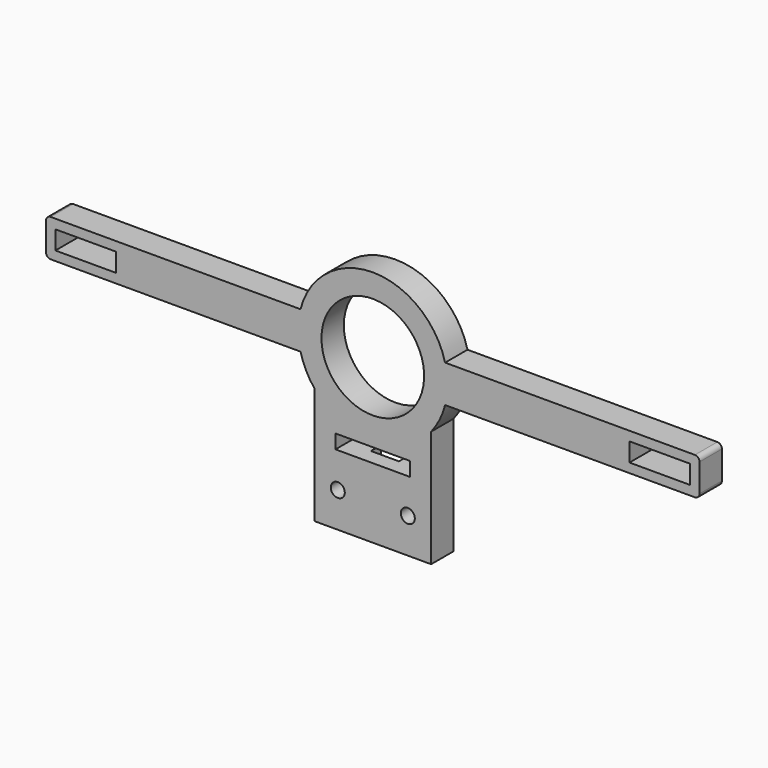
from build123d import *

# Parameters (mm, degrees)
BOX004_W                     = 6
BOX004_H                     = 2.75
BOX004_DEPTH                 = 15
SKETCH023_R                  = 11
SKETCH023_R_2                = 1.5
SKETCH023_W                  = 13
SKETCH023_H                  = 4
SKETCH023_W_2                = 16
SKETCH023_H_2                = 3.01
EXTRUDE015_DEPTH             = 6
CUT002002009_PLACEMENT_ANGLE = 180


with BuildPart() as pendulumclampslot:
    # Box004 → Box004 (new body)
    with BuildSketch(Plane(origin=(-3, 15, -85), x_dir=(1, 0, 0), z_dir=(0, 0, 1))):
        with Locations((3, 1.375)):
            Rectangle(BOX004_W, BOX004_H)
    extrude(amount=BOX004_DEPTH)


with BuildPart() as pendulumclampfront:
    # Sketch023 → Extrude015 (new body)
    with BuildSketch(Plane(origin=(0, 21, -50), x_dir=(1, 0, 0), z_dir=(0, -1, 0))):
        with BuildLine():
            ThreePointArc((-15.491933, -4), (-14.312568, -7.151951), (-12.5, -9.987492))
            Line((-12.5, -35), (-12.5, -9.987492))
            Line((-12.5, -35), (12.5, -35))
            Line((12.5, -35), (12.5, -9.987492))
            ThreePointArc((12.5, -9.987492), (14.312568, -7.151951), (15.491933, -4))
            Line((15.491933, -4), (69, -4))
            ThreePointArc((69, -4), (69.707107, -3.707107), (70, -3))
            Line((70, -3), (70, 3))
            ThreePointArc((70, 3), (69.707107, 3.707107), (69, 4))
            Line((15.491933, 4), (69, 4))
            ThreePointArc((15.491933, 4), (0, 16), (-15.491933, 4))
            Line((-15.491933, 4), (-69, 4))
            ThreePointArc((-69, 4), (-69.707107, 3.707107), (-70, 3))
            Line((-70, 3), (-70, -3))
            ThreePointArc((-70, -3), (-69.707107, -3.707107), (-69, -4))
            Line((-69, -4), (-15.491933, -4))
        make_face()
        Circle(SKETCH023_R, mode=Mode.SUBTRACT)
        with Locations((-7.5, -27.5)):
            Circle(SKETCH023_R_2, mode=Mode.SUBTRACT)
        with Locations((7.5, -27.5)):
            Circle(SKETCH023_R_2, mode=Mode.SUBTRACT)
        with Locations((-61.5, 0)):
            Rectangle(SKETCH023_W, SKETCH023_H, mode=Mode.SUBTRACT)
        with Locations((61.5, 0)):
            Rectangle(SKETCH023_W, SKETCH023_H, mode=Mode.SUBTRACT)
        with Locations((0, -18.495)):
            Rectangle(SKETCH023_W_2, SKETCH023_H_2, mode=Mode.SUBTRACT)
    extrude(amount=EXTRUDE015_DEPTH)

    # Cut002002009: cut PendulumClampSlot
    add(pendulumclampslot.part, mode=Mode.SUBTRACT)


with BuildPart() as pendulumclampfront_1:
    # Cut002002009 placement: moved
    add(pendulumclampfront.part.moved(Location((0, 30, 0))).rotate(Axis((0, 30, 0), (0, 0, 1)), CUT002002009_PLACEMENT_ANGLE))


solid = pendulumclampfront_1.part
